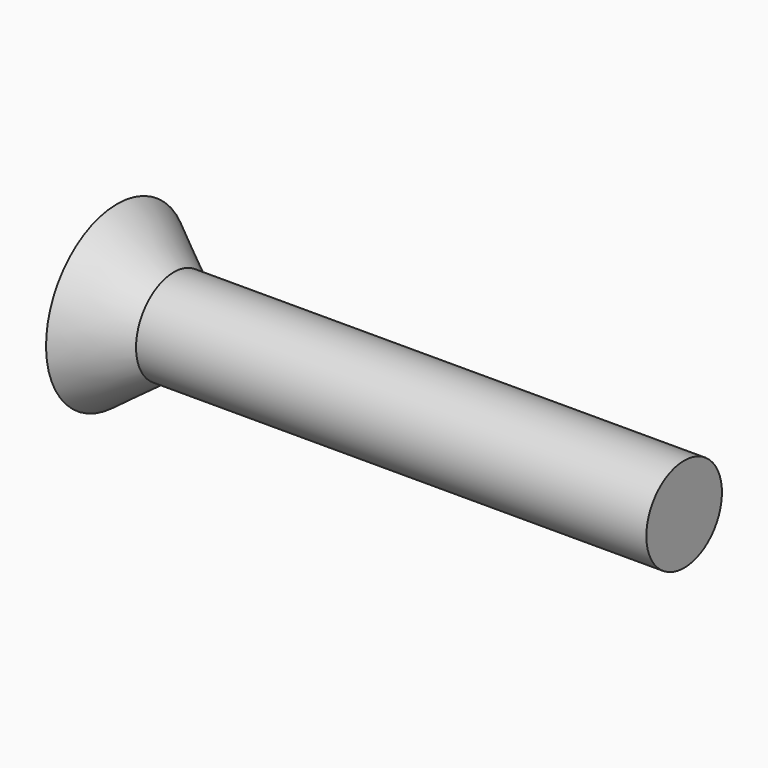
from build123d import *

# Parameters (mm, degrees)
F3_DEPTH = 1.5


with BuildPart() as f1:
    # F0 (on Front) → F1 (revolve)
    with BuildSketch(Plane.XZ):
        Polygon((0, 2.35), (0, 0), (15, 0), (15, 1.25), (1.5, 1.25), align=None)
    revolve(axis=Axis((7.5, 0, 0), (-1, 0, 0)))

    # F2 (on face) → F3 (cut)
    with BuildSketch(Plane(origin=(0, 0, 0), x_dir=(0, -1, 0), z_dir=(-1, 0, 0))):
        Polygon((0.57735, -1), (1.154701, 0), (0.57735, 1), (-0.57735, 1), (-1.154701, 0), (-0.57735, -1), align=None)
    extrude(amount=-F3_DEPTH, mode=Mode.SUBTRACT)


solid = f1.part
